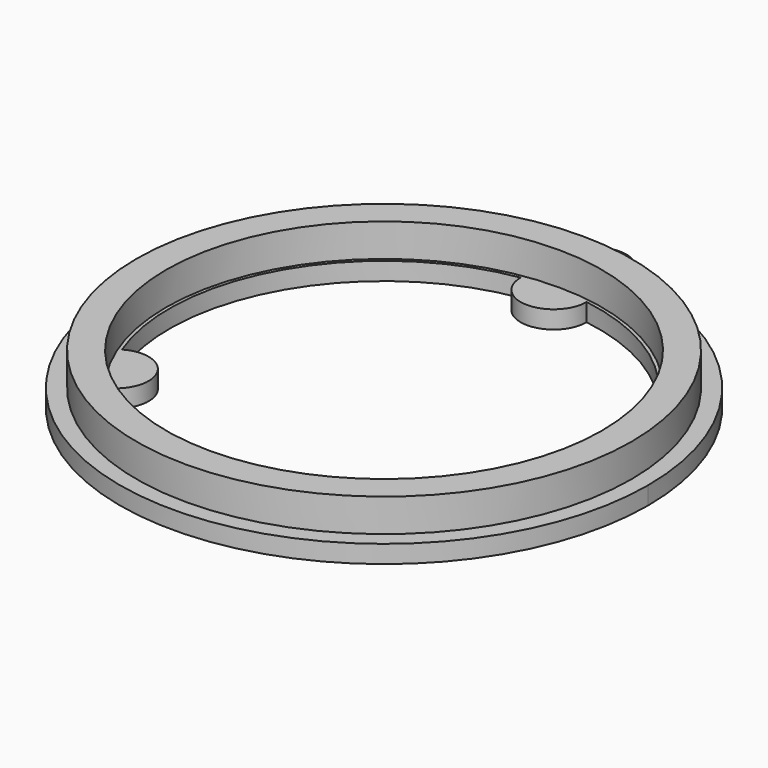
from build123d import *

# Parameters (mm, degrees)
F1_DEPTH = 1.7145
F2_R     = 23.8125
F2_R_2   = 20.955
F3_DEPTH = 3.175


with BuildPart() as f1:
    # F0 (on Top) → F1 (new body)
    with BuildSketch(Plane.XY):
        with BuildLine():
            ThreePointArc((-3.175, 25.2007812379), (-16.8005208253, -19.05), (25.4, 0))
            ThreePointArc((25.4, 0), (19.05, 16.8005208253), (3.175, 25.2007812379))
            ThreePointArc((3.175, 25.2007812379), (0, 25.4), (-3.175, 25.2007812379))
        make_face()
        with BuildLine():
            ThreePointArc((3.175, 20.3918067186), (15.6753065161, 13.4235305294), (20.6375, 0))
            ThreePointArc((20.6375, 0), (20.2869789198, -3.7874651889), (19.2473226474, -7.4462727023))
            ThreePointArc((19.2473226474, -7.4462727023), (17.8725992706, -10.31875), (16.0723226474, -12.9455340163))
            ThreePointArc((16.0723226474, -12.9455340163), (0, -20.6375), (-16.0723226474, -12.9455340163))
            ThreePointArc((-16.0723226474, -12.9455340163), (-17.8725992706, -10.31875), (-19.2473226474, -7.4462727023))
            ThreePointArc((-19.2473226474, -7.4462727023), (-17.8725992706, 10.31875), (-3.175, 20.3918067186))
            ThreePointArc((-3.175, 20.3918067186), (0, 20.6375), (3.175, 20.3918067186))
        make_face(mode=Mode.SUBTRACT)
        with BuildLine():
            ThreePointArc((-3.175, 20.3918067186), (0, 17.2168067186), (3.175, 20.3918067186))
            ThreePointArc((3.175, 20.3918067186), (0, 20.6375), (-3.175, 20.3918067186))
        make_face()
        with BuildLine():
            ThreePointArc((-16.0723226474, -12.9455340163), (-14.9101919904, -8.6084033593), (-19.2473226474, -7.4462727023))
            ThreePointArc((-19.2473226474, -7.4462727023), (-17.8725992706, -10.31875), (-16.0723226474, -12.9455340163))
        make_face()
        with BuildLine():
            ThreePointArc((16.0723226474, -12.9455340163), (17.8725992706, -10.31875), (19.2473226474, -7.4462727023))
            ThreePointArc((19.2473226474, -7.4462727023), (14.9101919904, -8.6084033593), (16.0723226474, -12.9455340163))
        make_face()
        with BuildLine():
            ThreePointArc((-3.175, 25.2007812379), (0, 25.4), (3.175, 25.2007812379))
            ThreePointArc((3.175, 25.2007812379), (0, 28.3757812379), (-3.175, 25.2007812379))
        make_face()
    extrude(amount=F1_DEPTH)

    # F2 (on face) → F3 (join)
    with BuildSketch(Plane.XY.offset(1.7145)):
        Circle(F2_R)
        Circle(F2_R_2, mode=Mode.SUBTRACT)
    extrude(amount=F3_DEPTH)


solid = f1.part
